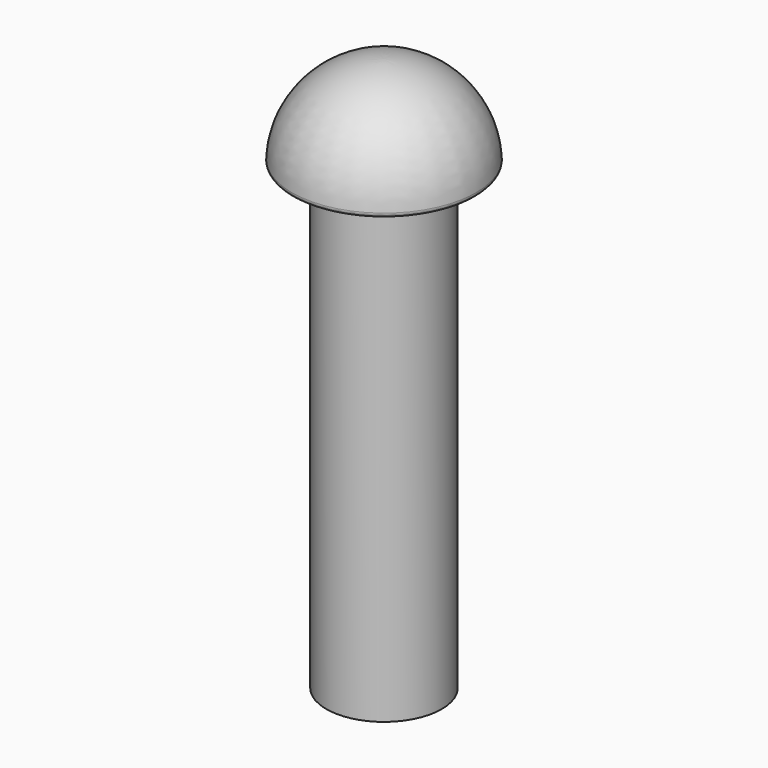
from build123d import *

# Parameters (mm, degrees)
F2_R     = 1.5875
F3_DEPTH = 12.7
F4_R     = 0.127


with BuildPart() as f1:
    # F0 (on Front) → F1 (revolve)
    with BuildSketch(Plane.XZ):
        with BuildLine():
            Line((0, 0), (2.54, 0))
            ThreePointArc((2.54, 0), (1.796051, 1.796051), (0, 2.54))
            Line((0, 2.54), (0, 0))
        make_face()
    revolve(axis=Axis((0, 0, 1.27), (0, 0, 1)))

    # F2 (on face) → F3 (join)
    with BuildSketch(Plane(origin=(0, 0, 0), x_dir=(1, 0, 0), z_dir=(0, 0, -1))):
        Circle(F2_R)
    extrude(amount=F3_DEPTH)

    # F4
    f4_edges = [f1.edges().sort_by_distance(p)[0] for p in [
        (-2.54, 0, 0),
    ]]
    fillet(f4_edges, radius=F4_R)


solid = f1.part
